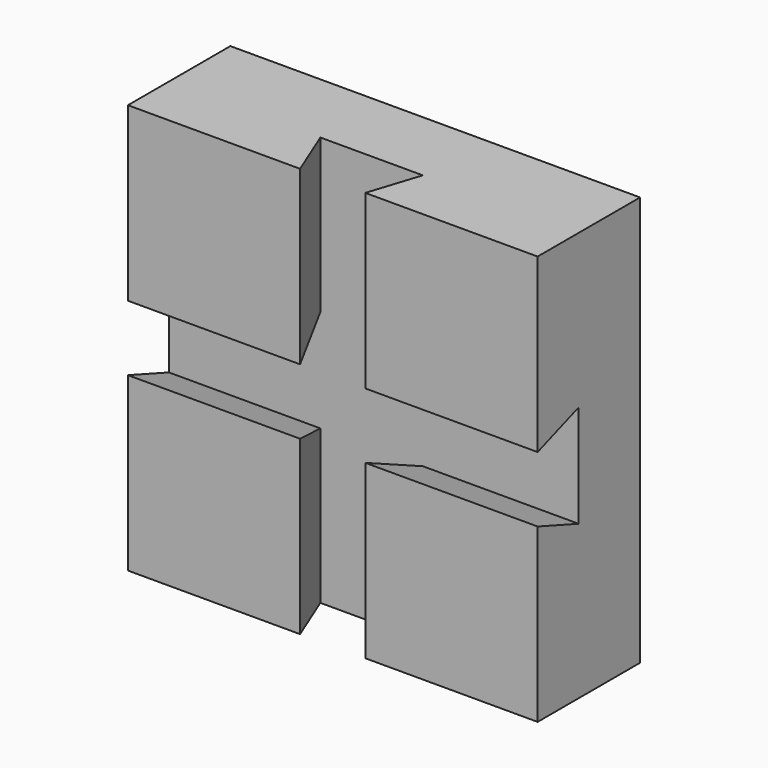
from build123d import *

# Parameters (mm, degrees)
F0_W     = 80
F0_H     = 80
F1_DEPTH = 25
F3_DEPTH = 80
F5_DEPTH = 80


with BuildPart() as f1:
    # F0 (on Front) → F1 (new body)
    with BuildSketch(Plane.XZ):
        with Locations((0.42491, 6.112343)):
            Rectangle(F0_W, F0_H)
    extrude(amount=-F1_DEPTH)

    # F2 (on face) → F3 (cut)
    with BuildSketch(Plane(origin=(0, 0, -33.887657), x_dir=(1, 0, 0), z_dir=(0, 0, -1))):
        Polygon((-5.96826, 0), (-10, -10), (10, -10), (6.775631, 0), align=None)
    extrude(amount=-F3_DEPTH, mode=Mode.SUBTRACT)

    # F4 (on face) → F5 (cut)
    with BuildSketch(Plane(origin=(-39.57509, 0, 0), x_dir=(0, -1, 0), z_dir=(-1, 0, 0))):
        Polygon((-10, 16.112343), (-10, 6.112343), (-10, -3.887657), (0, -0.294908), (0, 12.498255), align=None)
    extrude(amount=-F5_DEPTH, mode=Mode.SUBTRACT)


solid = f1.part
